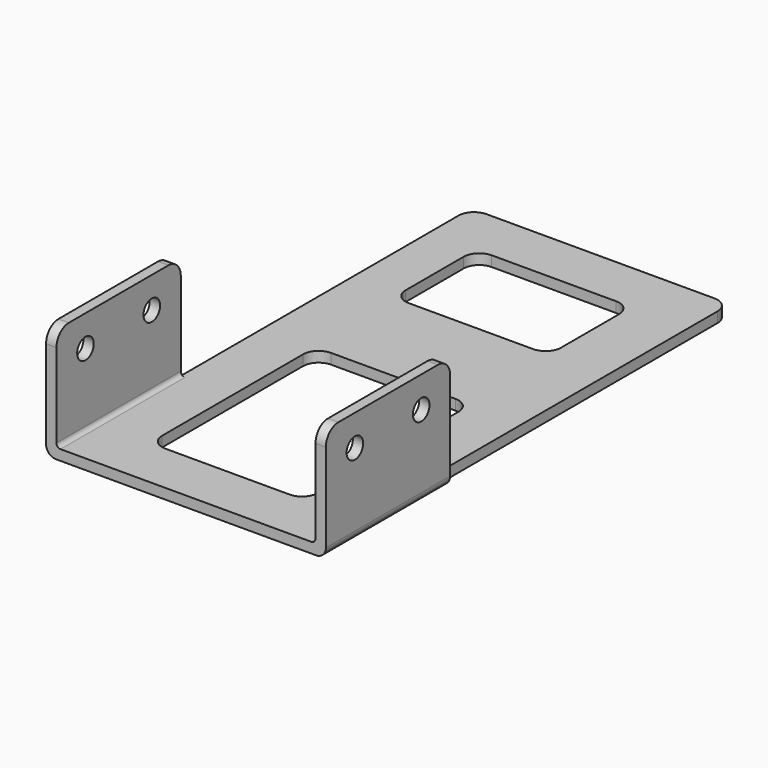
from build123d import *

# Parameters (mm, degrees)
BOX004_W          = 30
BOX004_H          = 20
BOX004_DEPTH      = 7
BOX003_W          = 30
BOX003_H          = 40
BOX003_DEPTH      = 6
CYLINDER001_R     = 2
CYLINDER001_DEPTH = 59
CYLINDER_R        = 2
CYLINDER_DEPTH    = 59
BOX002_W          = 2
BOX002_H          = 30
BOX002_DEPTH      = 22
FILLET_R          = 1.9
BOX001_W          = 2
BOX001_H          = 30
BOX001_DEPTH      = 22
FILLET001_R       = 1.9
BOX_W             = 50
BOX_H             = 100
BOX_DEPTH         = 2
FILLET002_R       = 0.8
FILLET003_R       = 3
FILLET004_R       = 3
FILLET005_R       = 3
FILLET006_R       = 3


with BuildPart() as cub001:
    # Box004 → Box004 (new body)
    with BuildSketch(Plane(origin=(9, 70, -3), x_dir=(1, 0, 0), z_dir=(0, 0, 1))):
        with Locations((15, 10)):
            Rectangle(BOX004_W, BOX004_H)
    extrude(amount=BOX004_DEPTH)


with BuildPart() as cub:
    # Box003 → Box003 (new body)
    with BuildSketch(Plane(origin=(10, 10, -2), x_dir=(1, 0, 0), z_dir=(0, 0, 1))):
        with Locations((15, 20)):
            Rectangle(BOX003_W, BOX003_H)
    extrude(amount=BOX003_DEPTH)


with BuildPart() as cilindre001:
    # Cylinder001 → Cylinder001 (new body)
    with BuildSketch(Plane(origin=(-4, 23, 13), x_dir=(0, 0, -1), z_dir=(1, 0, 0))):
        Circle(CYLINDER001_R)
    extrude(amount=CYLINDER001_DEPTH)


with BuildPart() as cylinders:
    # Cylinder → Cylinder (new body)
    with BuildSketch(Plane(origin=(-4, 7, 13), x_dir=(0, 0, -1), z_dir=(1, 0, 0))):
        Circle(CYLINDER_R)
    extrude(amount=CYLINDER_DEPTH)

    # Fusion001: union Cilindre001
    add(cilindre001.part)


with BuildPart() as cylinders_1:
    # Fusion001 placement: moved
    add(cylinders.part.moved(Location((0, 0, 3))))


with BuildPart() as fillet_body:
    # Box002 → Box002 (new body)
    with BuildSketch(Plane(origin=(-2, 0, 0), x_dir=(1, 0, 0), z_dir=(0, 0, 1))):
        with Locations((1, 15)):
            Rectangle(BOX002_W, BOX002_H)
    extrude(amount=BOX002_DEPTH)

    # Fillet
    fillet_edges = [fillet_body.edges().sort_by_distance(p)[0] for p in [
        (-2, 15, 0),
    ]]
    fillet(fillet_edges, radius=FILLET_R)


with BuildPart() as fillet001:
    # Box001 → Box001 (new body)
    with BuildSketch(Plane(origin=(50, 0, 0), x_dir=(1, 0, 0), z_dir=(0, 0, 1))):
        with Locations((1, 15)):
            Rectangle(BOX001_W, BOX001_H)
    extrude(amount=BOX001_DEPTH)

    # Fillet001
    fillet001_edges = [fillet001.edges().sort_by_distance(p)[0] for p in [
        (52, 15, 0),
    ]]
    fillet(fillet001_edges, radius=FILLET001_R)


with BuildPart() as obj1:
    # Box → Box (new body)
    with BuildSketch(Plane.XY):
        with Locations((25, 50)):
            Rectangle(BOX_W, BOX_H)
    extrude(amount=BOX_DEPTH)

    # Fusion: union Fillet body, Fillet001
    add(fillet_body.part)
    add(fillet001.part)

    # Fillet002
    fillet002_edges = [obj1.edges().sort_by_distance(p)[0] for p in [
        (0, 15, 2),
        (50, 15, 2),
    ]]
    fillet(fillet002_edges, radius=FILLET002_R)

    # Cut: cut cylinders
    add(cylinders_1.part, mode=Mode.SUBTRACT)

    # Fillet003
    fillet003_edges = [obj1.edges().sort_by_distance(p)[0] for p in [
        (-1, 30, 22),
        (-1, 0, 22),
        (51, 0, 22),
        (51, 30, 22),
    ]]
    fillet(fillet003_edges, radius=FILLET003_R)

    # Fillet004
    fillet004_edges = [obj1.edges().sort_by_distance(p)[0] for p in [
        (0, 100, 1),
        (50, 100, 1),
    ]]
    fillet(fillet004_edges, radius=FILLET004_R)

    # Cut001: cut Cub
    add(cub.part, mode=Mode.SUBTRACT)

    # Fillet005
    fillet005_edges = [obj1.edges().sort_by_distance(p)[0] for p in [
        (40, 10, 1),
        (10, 10, 1),
        (40, 50, 1),
        (10, 50, 1),
    ]]
    fillet(fillet005_edges, radius=FILLET005_R)

    # Cut002: cut Cub001
    add(cub001.part, mode=Mode.SUBTRACT)

    # Fillet006
    fillet006_edges = [obj1.edges().sort_by_distance(p)[0] for p in [
        (39, 70, 1),
        (9, 70, 1),
        (39, 90, 1),
        (9, 90, 1),
    ]]
    fillet(fillet006_edges, radius=FILLET006_R)


solid = obj1.part
